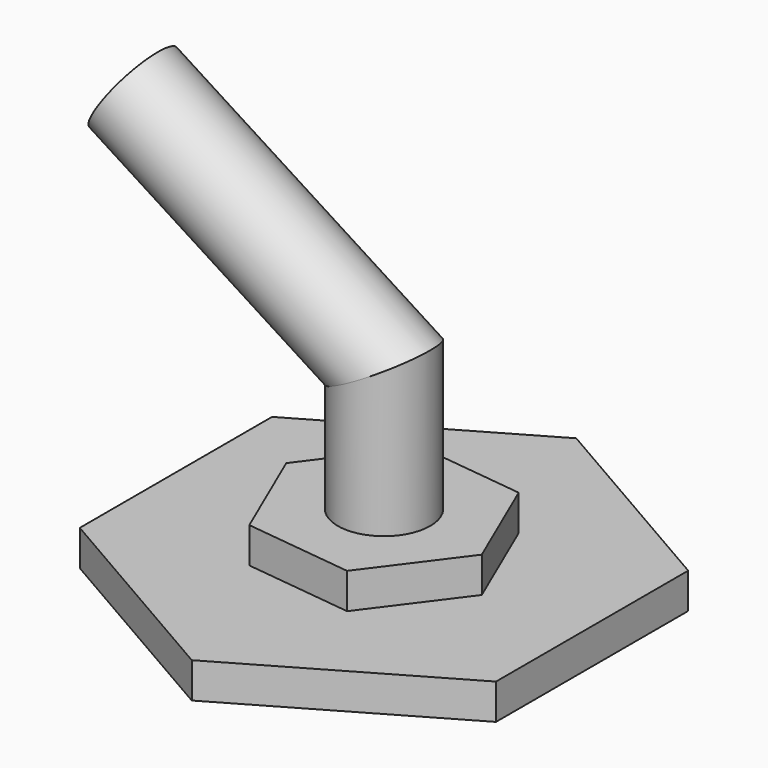
from build123d import *

# Parameters (mm, degrees)
F1_DEPTH = 6.35
F3_DEPTH = 6.35
F5_R     = 8.265991875


with BuildPart() as f1:
    # F0 (on Top) → F1 (new body)
    with BuildSketch(Plane.XY):
        Polygon((37.2053198516, -21.4805014316), (37.2053198516, 21.4805014316), (0, 42.9610028633), (-37.2053198516, 21.4805014316), (-37.2053198516, -21.4805014316), (0, -42.9610028633), align=None)
    extrude(amount=F1_DEPTH)

    # F2 (on face) → F3 (join)
    with BuildSketch(Plane.XY.offset(6.35)):
        Polygon((19.298683545, -2.2752430233), (11.6197600305, 15.5755286979), (-7.6789235145, 17.8507717212), (-19.298683545, 2.2752430233), (-11.6197600305, -15.5755286979), (7.6789235145, -17.8507717212), align=None)
    extrude(amount=F3_DEPTH)


with BuildPart() as f6:
    # F6: sweep along a path in F4
    with BuildLine(Plane.XZ) as f6_path:
        Line((0, 12.7), (0, 35.8140021563))
        Line((0, 35.8140021563), (-44.8887273669, 64.4929111004))
    # F5 (on face) → F6 (sweep)
    with BuildSketch(Plane.XY.offset(12.7)):
        Circle(F5_R)
    sweep(path=f6_path.line, transition=Transition.RIGHT)


solid = Compound([f1.part, f6.part])
